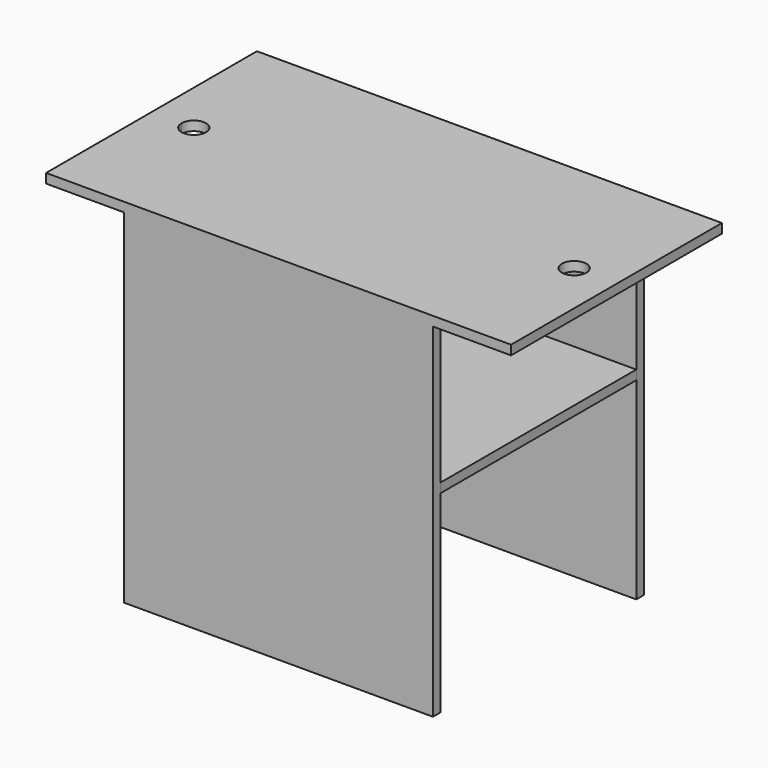
from build123d import *

# Parameters (mm, degrees)
F1_DEPTH = 10
F2_W     = 328
F2_H     = 10
F3_DEPTH = 365
F4_W     = 240
F4_H     = 10
F5_DEPTH = 260


with BuildPart() as f1:
    # F0 (on Top) → F1 (new body)
    with BuildSketch(Plane.XY):
        with BuildLine():
            Line((0, 140), (0, 0))
            Line((0, 0), (45, 0))
            Line((45, 0), (45, 127))
            ThreePointArc((45, 127), (35.807612, 130.807612), (32, 140))
            Line((32, 140), (0, 140))
        make_face()
        with BuildLine():
            Line((45, 127), (45, 0))
            Line((45, 0), (449, 0))
            Line((449, 0), (449, 127))
            ThreePointArc((449, 127), (439.807612, 149.192388), (462, 140))
            Line((462, 140), (494, 140))
            Line((494, 140), (494, 280))
            Line((494, 280), (0, 280))
            Line((0, 280), (0, 140))
            Line((0, 140), (32, 140))
            ThreePointArc((32, 140), (45, 153), (58, 140))
            ThreePointArc((58, 140), (54.192388, 130.807612), (45, 127))
        make_face()
        with BuildLine():
            Line((449, 127), (449, 0))
            Line((449, 0), (494, 0))
            Line((494, 0), (494, 140))
            Line((494, 140), (462, 140))
            ThreePointArc((462, 140), (458.192388, 130.807612), (449, 127))
        make_face()
    extrude(amount=F1_DEPTH)

    # F2 (on face) → F3 (join)
    with BuildSketch(Plane(origin=(0, 0, 0), x_dir=(1, 0, 0), z_dir=(0, 0, -1))):
        with Locations((247, -275)):
            Rectangle(F2_W, F2_H)
        with Locations((247, -5)):
            Rectangle(F2_W, F2_H)
    extrude(amount=F3_DEPTH)


with BuildPart() as f5:
    # F4 (on face) → F5 (new body)
    with BuildSketch(Plane.XZ.offset(-270)):
        with Locations((291, -155)):
            Rectangle(F4_W, F4_H)
    extrude(amount=F5_DEPTH)


solid = Compound([f1.part, f5.part])
